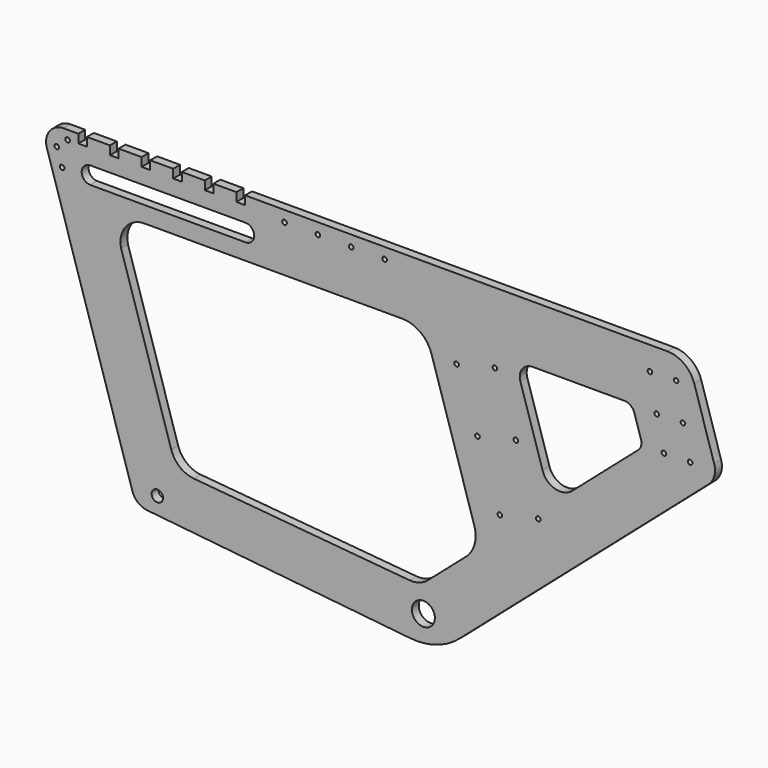
from build123d import *

# Parameters (mm, degrees)
F0_R     = 10
F0_R_2   = 20
F0_R_3   = 4
F1_DEPTH = 7.5


with BuildPart() as f1:
    # F0 (on Front) → F1 (new body, symmetric)
    with BuildSketch(Plane.XZ):
        with BuildLine():
            ThreePointArc((-275.56228, -20.548175), (-265.997427, -34.715036), (-250.213495, -41.276581))
            Line((-250.213495, -41.276581), (207.372435, -88.341603))
            ThreePointArc((207.372435, -88.341603), (253.099825, -83.652204), (293.182151, -61.149053))
            Line((293.182151, -61.149053), (726.156602, 315.743114))
            ThreePointArc((726.156602, 315.743114), (736.385608, 331.867799), (736.13455, 350.961647))
            Line((736.13455, 350.961647), (701.375468, 462.389844))
            ThreePointArc((701.375468, 462.389844), (683.514294, 486.942452), (654.636412, 496.31902))
            Line((654.636412, 496.31902), (-79.706343, 496.31902))
            Line((-79.706343, 496.31902), (-79.706343, 481.31902))
            Line((-79.706343, 481.31902), (-94.706343, 481.31902))
            Line((-94.706343, 481.31902), (-94.706343, 496.31902))
            Line((-94.706343, 496.31902), (-134.706343, 496.31902))
            Line((-134.706343, 496.31902), (-134.706343, 481.31902))
            Line((-134.706343, 481.31902), (-149.706343, 481.31902))
            Line((-149.706343, 481.31902), (-149.706343, 496.31902))
            Line((-149.706343, 496.31902), (-189.706343, 496.31902))
            Line((-189.706343, 496.31902), (-189.706343, 481.31902))
            Line((-189.706343, 481.31902), (-204.706343, 481.31902))
            Line((-204.706343, 481.31902), (-204.706343, 496.31902))
            Line((-204.706343, 496.31902), (-244.706343, 496.31902))
            Line((-244.706343, 496.31902), (-244.706343, 481.31902))
            Line((-244.706343, 481.31902), (-259.706343, 481.31902))
            Line((-259.706343, 481.31902), (-259.706343, 496.31902))
            Line((-259.706343, 496.31902), (-299.706343, 496.31902))
            Line((-299.706343, 496.31902), (-299.706343, 481.31902))
            Line((-299.706343, 481.31902), (-314.706343, 481.31902))
            Line((-314.706343, 481.31902), (-314.706343, 496.31902))
            Line((-314.706343, 496.31902), (-354.706343, 496.31902))
            Line((-354.706343, 496.31902), (-354.706343, 481.31902))
            Line((-354.706343, 481.31902), (-369.706343, 481.31902))
            Line((-369.706343, 481.31902), (-369.706343, 496.31902))
            Line((-369.706343, 496.31902), (-395.363588, 496.31902))
            ThreePointArc((-395.363588, 496.31902), (-419.913193, 483.901328), (-424.456906, 456.767643))
            Line((-424.456906, 456.767643), (-275.56228, -20.548175))
        make_face()
        with Locations((-232.248772, -13.546013)):
            Circle(F0_R, mode=Mode.SUBTRACT)
        with BuildLine():
            Line((-208.053878, 65.265342), (-295.432418, 345.377263))
            ThreePointArc((-295.432418, 345.377263), (-287.23091, 380.65043), (-254.581922, 396.31902))
            Line((-254.581922, 396.31902), (193.565616, 396.31902))
            ThreePointArc((193.565616, 396.31902), (225.221488, 385.930207), (244.565755, 358.804187))
            Line((244.565755, 358.804187), (319.042257, 120.052707))
            ThreePointArc((319.042257, 120.052707), (319.750596, 92.90088), (306.101749, 69.418282))
            Line((306.101749, 69.418282), (238.217744, 10.327151))
            ThreePointArc((238.217744, 10.327151), (223.342417, 1.911302), (206.358638, 0))
            Line((206.358638, 0), (-168.811503, 33.604402))
            ThreePointArc((-168.811503, 33.604402), (-193.239091, 43.477544), (-208.053878, 65.265342))
        make_face(mode=Mode.SUBTRACT)
        with Locations((230.366445, -43.535308)):
            Circle(F0_R_2, mode=Mode.SUBTRACT)
        with Locations((363.418511, 151.143091)):
            Circle(F0_R_3, mode=Mode.SUBTRACT)
        with Locations((430.203208, 166.843278)):
            Circle(F0_R_3, mode=Mode.SUBTRACT)
        with Locations((-397.907798, 435.702402)):
            Circle(F0_R_3, mode=Mode.SUBTRACT)
        with Locations((-407.3259, 464.338549)):
            Circle(F0_R_3, mode=Mode.SUBTRACT)
        with Locations((-388.363458, 480.715226)):
            Circle(F0_R_3, mode=Mode.SUBTRACT)
        with BuildLine():
            ThreePointArc((-348.862556, 424.598233), (-363.862556, 439.598233), (-348.862556, 454.598233))
            Line((-348.862556, 454.598233), (-78.862556, 454.598233))
            ThreePointArc((-78.862556, 454.598233), (-63.862556, 439.598233), (-78.862556, 424.598233))
            Line((-78.862556, 424.598233), (-348.862556, 424.598233))
        make_face(mode=Mode.SUBTRACT)
        with Locations((-11.091434, 477.31902)):
            Circle(F0_R_3, mode=Mode.SUBTRACT)
        with Locations((46.90848, 477.31902)):
            Circle(F0_R_3, mode=Mode.SUBTRACT)
        with Locations((104.90848, 477.31902)):
            Circle(F0_R_3, mode=Mode.SUBTRACT)
        with Locations((324.477992, 258.924084)):
            Circle(F0_R_3, mode=Mode.SUBTRACT)
        with Locations((391.262689, 274.624271)):
            Circle(F0_R_3, mode=Mode.SUBTRACT)
        with BuildLine():
            Line((437.654594, 243.525634), (399.05919, 367.25204))
            ThreePointArc((399.05919, 367.25204), (402.398442, 387.193047), (420.440365, 396.31902))
            Line((420.440365, 396.31902), (579.801329, 396.31902))
            ThreePointArc((579.801329, 396.31902), (590.691559, 392.745068), (597.34636, 383.413194))
            Line((597.34636, 383.413194), (608.896369, 346.386995))
            ThreePointArc((608.896369, 346.386995), (609.023108, 336.747995), (603.859278, 328.607894))
            Line((603.859278, 328.607894), (489.3056, 228.892116))
            ThreePointArc((489.3056, 228.892116), (459.519244, 222.228502), (437.654594, 243.525634))
        make_face(mode=Mode.SUBTRACT)
        with Locations((648.709043, 338.435646)):
            Circle(F0_R_3, mode=Mode.SUBTRACT)
        with Locations((694.243557, 339.484597)):
            Circle(F0_R_3, mode=Mode.SUBTRACT)
        with Locations((288.051486, 357.594401)):
            Circle(F0_R_3, mode=Mode.SUBTRACT)
        with Locations((354.836183, 373.294587)):
            Circle(F0_R_3, mode=Mode.SUBTRACT)
        with Locations((162.90848, 477.31902)):
            Circle(F0_R_3, mode=Mode.SUBTRACT)
        with Locations((636.319377, 394.431325)):
            Circle(F0_R_3, mode=Mode.SUBTRACT)
        with Locations((681.85389, 395.480275)):
            Circle(F0_R_3, mode=Mode.SUBTRACT)
        with Locations((624.388255, 455.463381)):
            Circle(F0_R_3, mode=Mode.SUBTRACT)
        with Locations((669.922769, 456.512332)):
            Circle(F0_R_3, mode=Mode.SUBTRACT)
    extrude(amount=F1_DEPTH, both=True)


solid = f1.part
